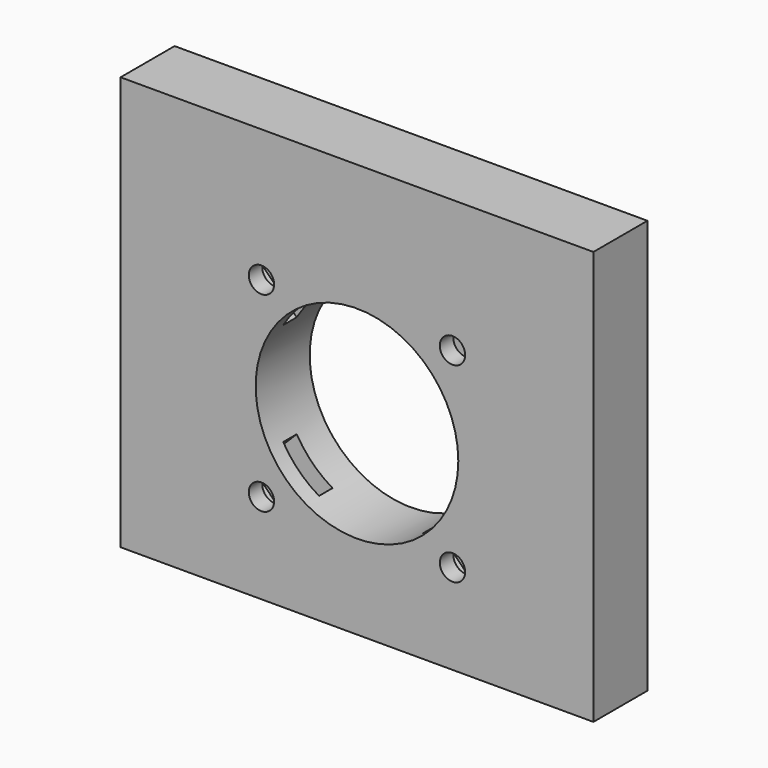
from build123d import *

# Parameters (mm, degrees)
BOX786_W                    = 6
BOX786_H                    = 2
BOX786_DEPTH                = 8
BOX780_W                    = 8
BOX780_H                    = 2
BOX780_DEPTH                = 6
BOX783_W                    = 8
BOX783_H                    = 2
BOX783_DEPTH                = 6
BOX785_W                    = 6
BOX785_H                    = 2
BOX785_DEPTH                = 8
COMPOUND939_PLACEMENT_ANGLE = 45
CYLINDER1872_R              = 12
CYLINDER1872_DEPTH          = 20
CYLINDER1874_R              = 1.5
CYLINDER1874_DEPTH          = 40
CYLINDER1876_R              = 1.5
CYLINDER1876_DEPTH          = 40
CYLINDER1875_R              = 1.5
CYLINDER1875_DEPTH          = 40
CYLINDER1873_R              = 1.5
CYLINDER1873_DEPTH          = 40
COMPOUND942_PLACEMENT_ANGLE = 45
BOX782_W                    = 56
BOX782_H                    = 8
BOX782_DEPTH                = 49


with BuildPart() as krychle786:
    # Box786 → Box786 (new body)
    with BuildSketch(Plane(origin=(-3, 116, 30), x_dir=(1, 0, 0), z_dir=(0, 0, 1))):
        with Locations((3, 1)):
            Rectangle(BOX786_W, BOX786_H)
    extrude(amount=BOX786_DEPTH)


with BuildPart() as krychle780:
    # Box780 → Box780 (new body)
    with BuildSketch(Plane(origin=(-19, 116, 46), x_dir=(1, 0, 0), z_dir=(0, 0, 1))):
        with Locations((4, 1)):
            Rectangle(BOX780_W, BOX780_H)
    extrude(amount=BOX780_DEPTH)


with BuildPart() as krychle783:
    # Box783 → Box783 (new body)
    with BuildSketch(Plane(origin=(11, 116, 46), x_dir=(1, 0, 0), z_dir=(0, 0, 1))):
        with Locations((4, 1)):
            Rectangle(BOX783_W, BOX783_H)
    extrude(amount=BOX783_DEPTH)


with BuildPart() as compound939:
    # Box785 → Box785 (new body)
    with BuildSketch(Plane(origin=(-3, 116, 60), x_dir=(1, 0, 0), z_dir=(0, 0, 1))):
        with Locations((3, 1)):
            Rectangle(BOX785_W, BOX785_H)
    extrude(amount=BOX785_DEPTH)

    # Compound939: union Krychle786, Krychle780, Krychle783
    add(krychle786.part)
    add(krychle780.part)
    add(krychle783.part)


with BuildPart() as compound939_1:
    # Compound939 placement: moved
    add(compound939.part.moved(Location((-34.65, 0, 16.35))).rotate(Axis((-34.65, 0, 16.35), (0, 1, 0)), COMPOUND939_PLACEMENT_ANGLE))


with BuildPart() as obj1:
    # Cylinder1872 → Cylinder1872 (new body)
    with BuildSketch(Plane(origin=(0, 124, 51), x_dir=(1, 0, 0), z_dir=(0, -1, 0))):
        Circle(CYLINDER1872_R)
    extrude(amount=CYLINDER1872_DEPTH)


with BuildPart() as obj2:
    # Cylinder1874 → Cylinder1874 (new body)
    with BuildSketch(Plane(origin=(16, 140, 49), x_dir=(1, 0, 0), z_dir=(0, -1, 0))):
        Circle(CYLINDER1874_R)
    extrude(amount=CYLINDER1874_DEPTH)


with BuildPart() as obj3:
    # Cylinder1876 → Cylinder1876 (new body)
    with BuildSketch(Plane(origin=(-16, 140, 49), x_dir=(1, 0, 0), z_dir=(0, -1, 0))):
        Circle(CYLINDER1876_R)
    extrude(amount=CYLINDER1876_DEPTH)


with BuildPart() as obj4:
    # Cylinder1875 → Cylinder1875 (new body)
    with BuildSketch(Plane(origin=(0, 140, 33), x_dir=(1, 0, 0), z_dir=(0, -1, 0))):
        Circle(CYLINDER1875_R)
    extrude(amount=CYLINDER1875_DEPTH)


with BuildPart() as compound942:
    # Cylinder1873 → Cylinder1873 (new body)
    with BuildSketch(Plane(origin=(0, 140, 65), x_dir=(1, 0, 0), z_dir=(0, -1, 0))):
        Circle(CYLINDER1873_R)
    extrude(amount=CYLINDER1873_DEPTH)

    # Compound942: union obj2, obj3, obj4
    add(obj2.part)
    add(obj3.part)
    add(obj4.part)


with BuildPart() as compound942_1:
    # Compound942 placement: moved
    add(compound942.part.moved(Location((-34.65, 0, 16.35))).rotate(Axis((-34.65, 0, 16.35), (0, 1, 0)), COMPOUND942_PLACEMENT_ANGLE))


with BuildPart() as cut588:
    # Box782 → Box782 (new body)
    with BuildSketch(Plane(origin=(-28, 114, 29), x_dir=(1, 0, 0), z_dir=(0, 0, 1))):
        with Locations((28, 4)):
            Rectangle(BOX782_W, BOX782_H)
    extrude(amount=BOX782_DEPTH)

    # Cut584: cut Compound942
    add(compound942_1.part, mode=Mode.SUBTRACT)

    # Cut590: cut obj1
    add(obj1.part, mode=Mode.SUBTRACT)

    # Cut588: cut Compound939
    add(compound939_1.part, mode=Mode.SUBTRACT)


solid = cut588.part
